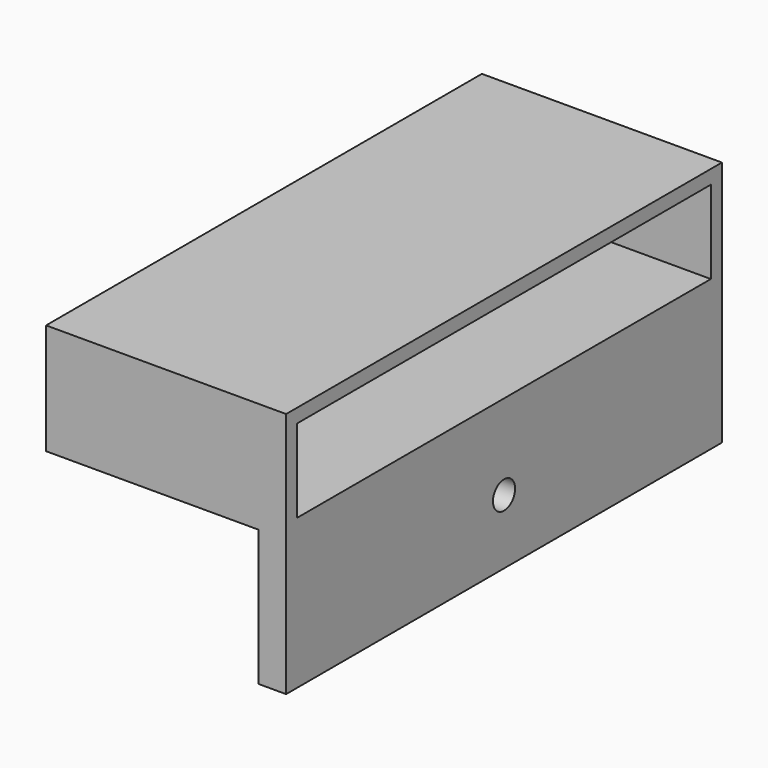
from build123d import *

# Parameters (mm, degrees)
F0_W     = 3
F0_H     = 14.70934
F1_DEPTH = 59
F2_R     = 1.5
F3_DEPTH = 4
F2_W     = 56
F2_H     = 9
F4_DEPTH = 24


with BuildPart() as f1:
    # F0 (on Front) → F1 (new body)
    with BuildSketch(Plane.XZ):
        Polygon((-12, 12), (-38, 12), (-38, 0), (-15, 0), (-12, 0), align=None)
        with Locations((-13.5, -7.35467)):
            Rectangle(F0_W, F0_H)
    extrude(amount=F1_DEPTH)

    # F2 (on face) → F3 (cut)
    with BuildSketch(Plane.YZ.offset(-12)):
        with Locations((-29.5, -7.70934)):
            Circle(F2_R)
    extrude(amount=-F3_DEPTH, mode=Mode.SUBTRACT)

    # F2 (on face) → F4 (cut)
    with BuildSketch(Plane.YZ.offset(-12)):
        with Locations((-29.5, 6)):
            Rectangle(F2_W, F2_H)
        with Locations((-29.5, -7.70934)):
            Circle(F2_R)
    extrude(amount=-F4_DEPTH, mode=Mode.SUBTRACT)


solid = f1.part
